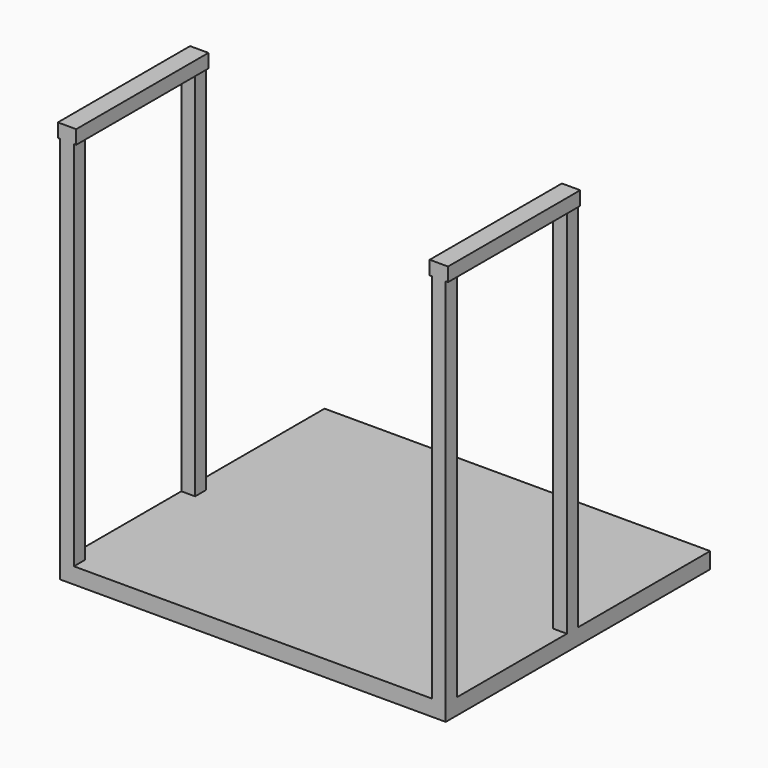
from build123d import *

# Parameters (mm, degrees)
F0_W     = 533.4
F0_H     = 457.2
F1_DEPTH = 44.45
F2_W     = 38.1
F2_H     = 38.1
F3_DEPTH = 1066.8
F4_W     = 50.8
F4_H     = 457.2
F5_DEPTH = 38.1
F6_ANGLE = 180


with BuildPart() as f1:
    # F0 (on Top) → F1 (new body)
    with BuildSketch(Plane.XY):
        with Locations((-266.7, 228.6)):
            Rectangle(F0_W, F0_H)
        with Locations((266.7, 228.6)):
            Rectangle(F0_W, F0_H)
        with Locations((-266.7, -228.6)):
            Rectangle(F0_W, F0_H)
        with Locations((266.7, -228.6)):
            Rectangle(F0_W, F0_H)
    extrude(amount=F1_DEPTH)

    # F2 (on face) → F3 (join)
    with BuildSketch(Plane.XY.offset(44.45)):
        with Locations((-514.35, 438.15)):
            Rectangle(F2_W, F2_H)
        with Locations((514.35, 438.15)):
            Rectangle(F2_W, F2_H)
        with Locations((-514.35, 19.05)):
            Rectangle(F2_W, F2_H)
        with Locations((514.35, 19.05)):
            Rectangle(F2_W, F2_H)
    extrude(amount=F3_DEPTH)

    # F4 (on face) → F5 (join)
    with BuildSketch(Plane.XY.offset(1111.25)):
        with Locations((-514.35, 228.6)):
            Rectangle(F4_W, F4_H)
        with Locations((514.35, 228.6)):
            Rectangle(F4_W, F4_H)
    extrude(amount=-F5_DEPTH)


with BuildPart() as f1_1:
    # F6: moved
    add(f1.part.rotate(Axis((-533.4, -457.2, 22.225), (0, 0, 1)), F6_ANGLE))


with BuildPart() as f1_2:
    # F7: moved
    add(f1_1.part.moved(Location((1155.7, 833.12, 0))))


solid = f1_2.part
